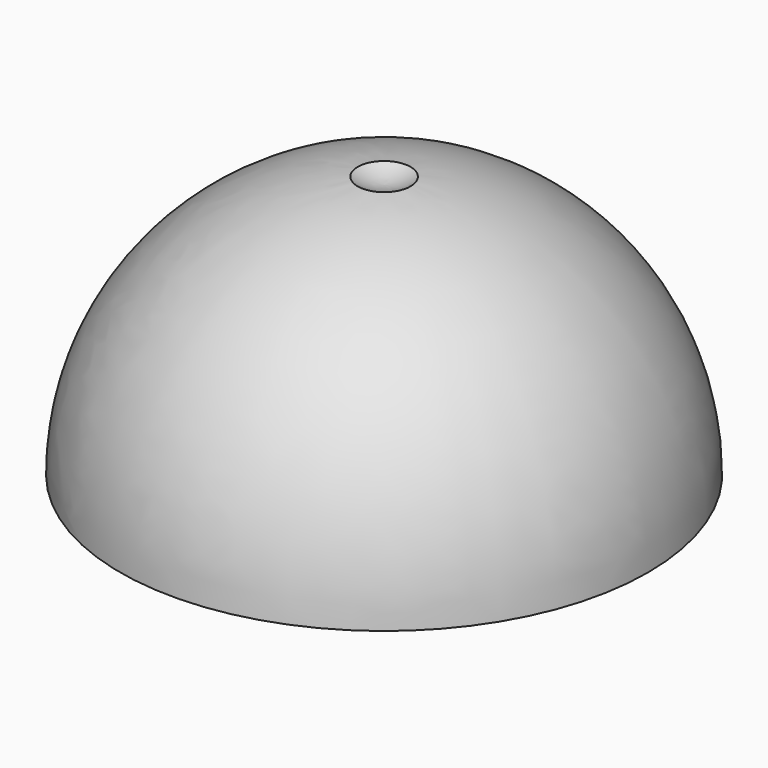
from build123d import *


with BuildPart() as f1:
    # F0 (on Front) → F1 (revolve)
    with BuildSketch(Plane.XZ):
        with BuildLine():
            Line((0, 0), (30, 0))
            ThreePointArc((30, 0), (21.213203, 21.213203), (0, 30))
            Line((0, 30), (0, 0))
        make_face()
    revolve(axis=Axis((0, 0, 15), (0, 0, -1)))

    # F2 (on Front) → F3 (revolve, cut)
    with BuildSketch(Plane.XZ):
        with BuildLine():
            ThreePointArc((0, 29), (1.554499, 29.232377), (3, 29.849623))
            ThreePointArc((3, 29.849623), (1.501883, 29.962382), (0, 30))
            Line((0, 30), (0, 29))
        make_face()
    revolve(axis=Axis((0, 0, 29.5), (0, 0, 1)), mode=Mode.SUBTRACT)


solid = f1.part
